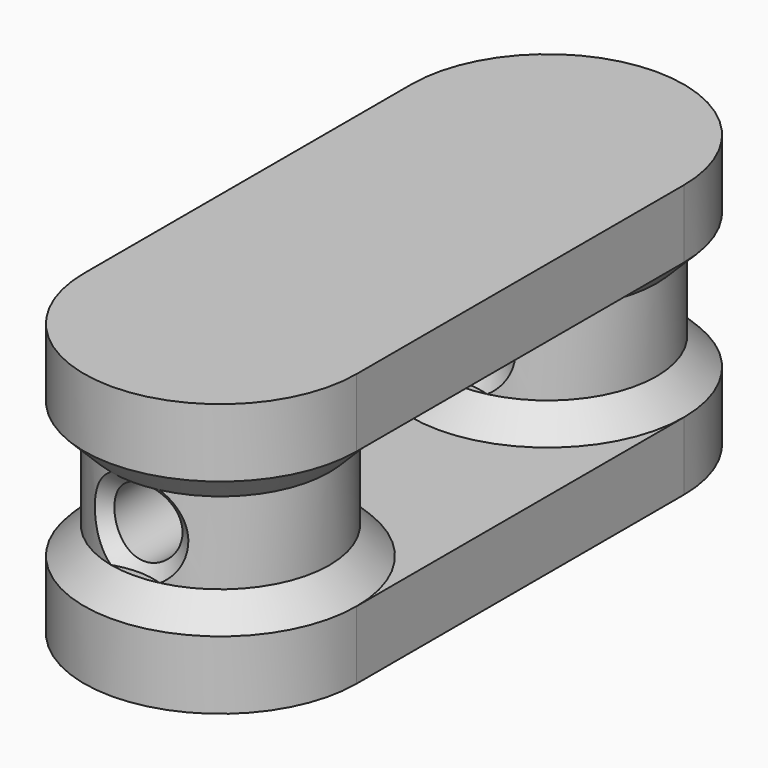
from build123d import *

# Parameters (mm, degrees)
CYLINDER001_R     = 10
CYLINDER001_DEPTH = 7
CYLINDER002_R     = 10
CYLINDER002_DEPTH = 7
CHAMFER004_SIZE   = 2
CYLINDER005_R     = 10
CYLINDER005_DEPTH = 7
CYLINDER004_R     = 10
CYLINDER004_DEPTH = 7
CHAMFER003_SIZE   = 2
BOX009_W          = 20
BOX009_H          = 30
BOX009_DEPTH      = 5
BOX010_W          = 20
BOX010_H          = 30
BOX010_DEPTH      = 5
CYLINDER003_R     = 2.5
CYLINDER003_DEPTH = 62
CYLINDER007_R     = 8
CYLINDER007_DEPTH = 20
CYLINDER006_R     = 8
CYLINDER006_DEPTH = 20
CHAMFER005_SIZE   = 1


with BuildPart() as cylinder001:
    # Cylinder001 → Cylinder001 (new body)
    with BuildSketch(Plane.XY):
        Circle(CYLINDER001_R)
    extrude(amount=CYLINDER001_DEPTH)


with BuildPart() as chamfer004:
    # Cylinder002 → Cylinder002 (new body)
    with BuildSketch(Plane(origin=(0, 30, 0), x_dir=(1, 0, 0), z_dir=(0, 0, 1))):
        Circle(CYLINDER002_R)
    extrude(amount=CYLINDER002_DEPTH)

    # Fusion001006: union Cylinder001
    add(cylinder001.part)

    # Chamfer004
    chamfer004_edges = [chamfer004.edges().sort_by_distance(p)[0] for p in [
        (-10, 30, 7),
        (-10, 0, 7),
    ]]
    chamfer(chamfer004_edges, length=CHAMFER004_SIZE)


with BuildPart() as cylinder005:
    # Cylinder005 → Cylinder005 (new body)
    with BuildSketch(Plane.XY.offset(15)):
        Circle(CYLINDER005_R)
    extrude(amount=CYLINDER005_DEPTH)


with BuildPart() as chamfer003:
    # Cylinder004 → Cylinder004 (new body)
    with BuildSketch(Plane(origin=(0, 30, 15), x_dir=(1, 0, 0), z_dir=(0, 0, 1))):
        Circle(CYLINDER004_R)
    extrude(amount=CYLINDER004_DEPTH)

    # Fusion001005: union Cylinder005
    add(cylinder005.part)


with BuildPart() as chamfer003_1:
    # Fusion001005 placement: moved
    add(chamfer003.part.moved(Location((0, 0, -2))))

    # Chamfer003
    chamfer003_edges = [chamfer003_1.edges().sort_by_distance(p)[0] for p in [
        (-10, 30, 13),
        (-10, 0, 13),
    ]]
    chamfer(chamfer003_edges, length=CHAMFER003_SIZE)


with BuildPart() as cube009:
    # Box009 → Box009 (new body)
    with BuildSketch(Plane(origin=(-10, 0, 0), x_dir=(1, 0, 0), z_dir=(0, 0, 1))):
        with Locations((10, 15)):
            Rectangle(BOX009_W, BOX009_H)
    extrude(amount=BOX009_DEPTH)


with BuildPart() as cube010:
    # Box010 → Box010 (new body)
    with BuildSketch(Plane(origin=(-10, 0, 15), x_dir=(1, 0, 0), z_dir=(0, 0, 1))):
        with Locations((10, 15)):
            Rectangle(BOX010_W, BOX010_H)
    extrude(amount=BOX010_DEPTH)


with BuildPart() as cylinder003:
    # Cylinder003 → Cylinder003 (new body)
    with BuildSketch(Plane(origin=(0, -15, 10), x_dir=(1, 0, 0), z_dir=(0, 1, 0))):
        Circle(CYLINDER003_R)
    extrude(amount=CYLINDER003_DEPTH)


with BuildPart() as cylinder007:
    # Cylinder007 → Cylinder007 (new body)
    with BuildSketch(Plane.XY):
        Circle(CYLINDER007_R)
    extrude(amount=CYLINDER007_DEPTH)


with BuildPart() as fusion001008:
    # Cylinder006 → Cylinder006 (new body)
    with BuildSketch(Plane(origin=(0, 30, 0), x_dir=(1, 0, 0), z_dir=(0, 0, 1))):
        Circle(CYLINDER006_R)
    extrude(amount=CYLINDER006_DEPTH)

    # Fusion001007: union Cylinder007
    add(cylinder007.part)

    # Cut003: cut Cylinder003
    add(cylinder003.part, mode=Mode.SUBTRACT)

    # Chamfer005
    chamfer005_edges = [fusion001008.edges().sort_by_distance(p)[0] for p in [
        (-2.5, 22.400658, 10),
        (-2.5, 37.599342, 10),
        (-2.5, -7.599342, 10),
        (-2.5, 7.599342, 10),
    ]]
    chamfer(chamfer005_edges, length=CHAMFER005_SIZE)

    # Fusion001008: union Chamfer004, Chamfer003, Cube009, Cube010
    add(chamfer004.part)
    add(chamfer003_1.part)
    add(cube009.part)
    add(cube010.part)


solid = fusion001008.part
